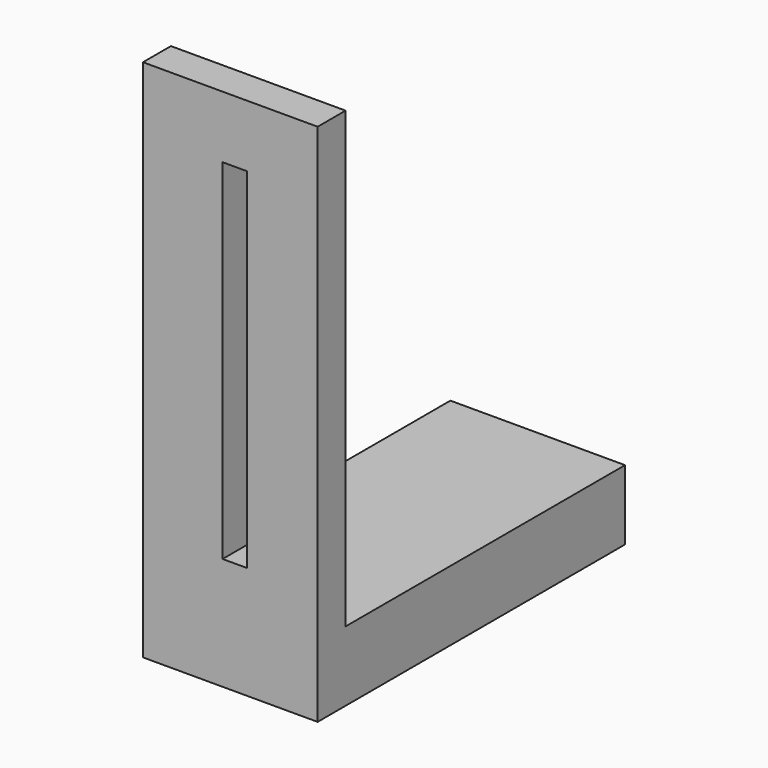
from build123d import *

# Parameters (mm, degrees)
F0_W     = 50
F0_H     = 100
F1_DEPTH = 20
F2_W     = 50
F2_H     = 150
F3_DEPTH = 10
F5_W     = 7
F5_H     = 100
F6_DEPTH = 25


with BuildPart() as f1:
    # F0 (on Top) → F1 (new body)
    with BuildSketch(Plane.XY):
        with Locations((25, 50)):
            Rectangle(F0_W, F0_H)
    extrude(amount=F1_DEPTH)

    # F2 (on Front) → F3 (join)
    with BuildSketch(Plane.XZ):
        with Locations((25, 75)):
            Rectangle(F2_W, F2_H)
    extrude(amount=F3_DEPTH)

    # F5 (on face) → F6 (cut)
    with BuildSketch(Plane.XZ.offset(10)):
        with Locations((26.290544, 82.216139)):
            Rectangle(F5_W, F5_H)
    extrude(amount=-F6_DEPTH, mode=Mode.SUBTRACT)


solid = f1.part
